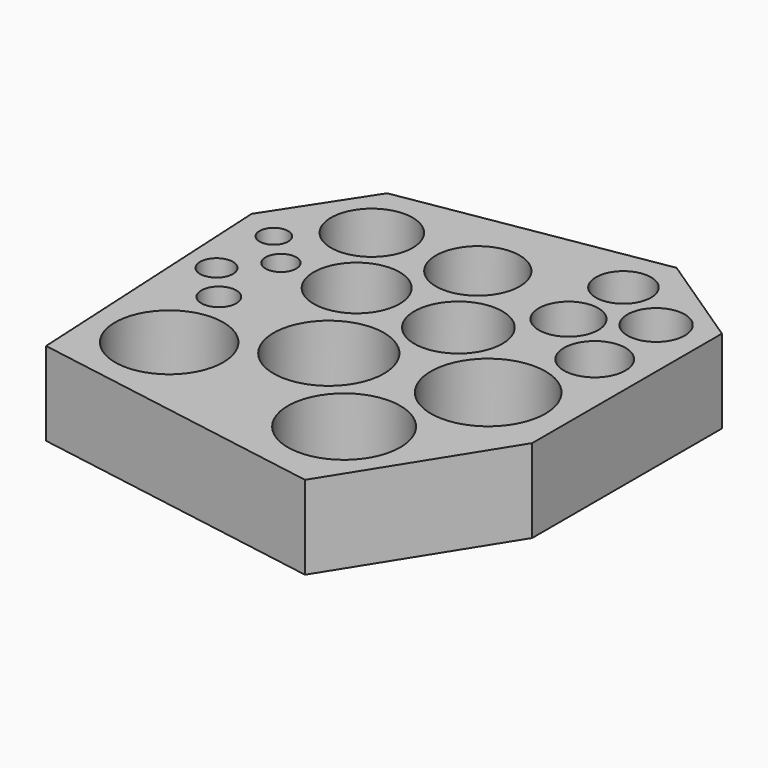
from build123d import *

# Parameters (mm, degrees)
F0_R     = 6.477
F0_R_2   = 2.0955
F0_R_3   = 6.604
F0_R_4   = 6.731
F0_R_5   = 6.858
F0_R_6   = 1.9685
F0_R_7   = 1.8415
F0_R_8   = 1.7145
F0_R_9   = 5.1435
F0_R_10  = 4.8895
F0_R_11  = 5.0165
F0_R_12  = 5.2705
F0_R_13  = 3.556
F0_R_14  = 3.683
F0_R_15  = 3.302
F0_R_16  = 3.429
F1_DEPTH = 10


with BuildPart() as f1:
    # F0 (on Top) → F1 (new body)
    with BuildSketch(Plane.XY):
        Polygon((-9.755744, 27.850911), (-17.044356, 16.685376), (-15.338511, -16.190922), (20.484246, -22.23892), (32.425169, -3.164464), (32.425169, 25.214603), (20.794399, 32.96845), align=None)
        with Locations((-6.809283, -8.437078)):
            Circle(F0_R, mode=Mode.SUBTRACT)
        with Locations((-8.936937, 1.653538)):
            Circle(F0_R_2, mode=Mode.SUBTRACT)
        with Locations((6.217177, -0.83831)):
            Circle(F0_R_3, mode=Mode.SUBTRACT)
        with Locations((16.607326, -11.538615)):
            Circle(F0_R_4, mode=Mode.SUBTRACT)
        with Locations((22.8104, 2.263227)):
            Circle(F0_R_5, mode=Mode.SUBTRACT)
        with Locations((-12.768192, 6.093469)):
            Circle(F0_R_6, mode=Mode.SUBTRACT)
        with Locations((-8.693385, 10.635814)):
            Circle(F0_R_7, mode=Mode.SUBTRACT)
        with Locations((-12.585197, 14.438136)):
            Circle(F0_R_8, mode=Mode.SUBTRACT)
        with Locations((0, 11.102608)):
            Circle(F0_R_9, mode=Mode.SUBTRACT)
        with Locations((-5.878822, 20.717375)):
            Circle(F0_R_10, mode=Mode.SUBTRACT)
        with Locations((6.682404, 20.872451)):
            Circle(F0_R_11, mode=Mode.SUBTRACT)
        with Locations((12.420249, 10.792454)):
            Circle(F0_R_12, mode=Mode.SUBTRACT)
        with Locations((19.398708, 18.546299)):
            Circle(F0_R_13, mode=Mode.SUBTRACT)
        with Locations((26.377169, 13.738916)):
            Circle(F0_R_14, mode=Mode.SUBTRACT)
        with Locations((19.398708, 26.765374)):
            Circle(F0_R_15, mode=Mode.SUBTRACT)
        with Locations((26.532244, 22.733374)):
            Circle(F0_R_16, mode=Mode.SUBTRACT)
    extrude(amount=F1_DEPTH)


solid = f1.part
